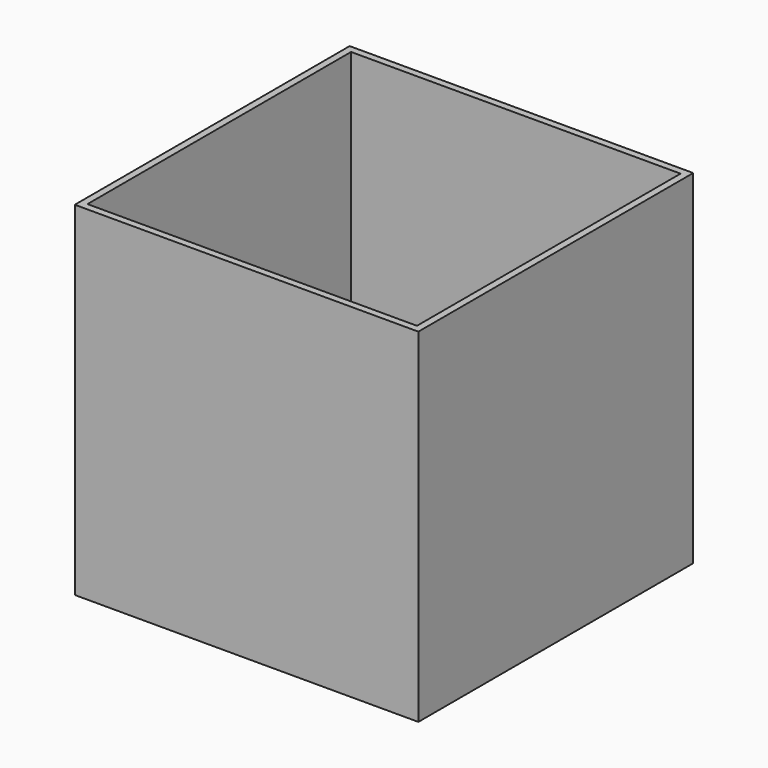
from build123d import *

# Parameters (mm, degrees)
F0_W     = 20
F0_H     = 20
F1_DEPTH = 20
F2_T     = -0.41


with BuildPart() as f1:
    # F0 (on Top) → F1 (new body)
    with BuildSketch(Plane.XY):
        Rectangle(F0_W, F0_H)
    extrude(amount=F1_DEPTH)

    # F2
    f2_openings = [f1.faces().sort_by_distance(p)[0] for p in [
        (0, 0, 20),
        (0, 0, 0),
    ]]
    offset(amount=F2_T, openings=f2_openings)


solid = f1.part
